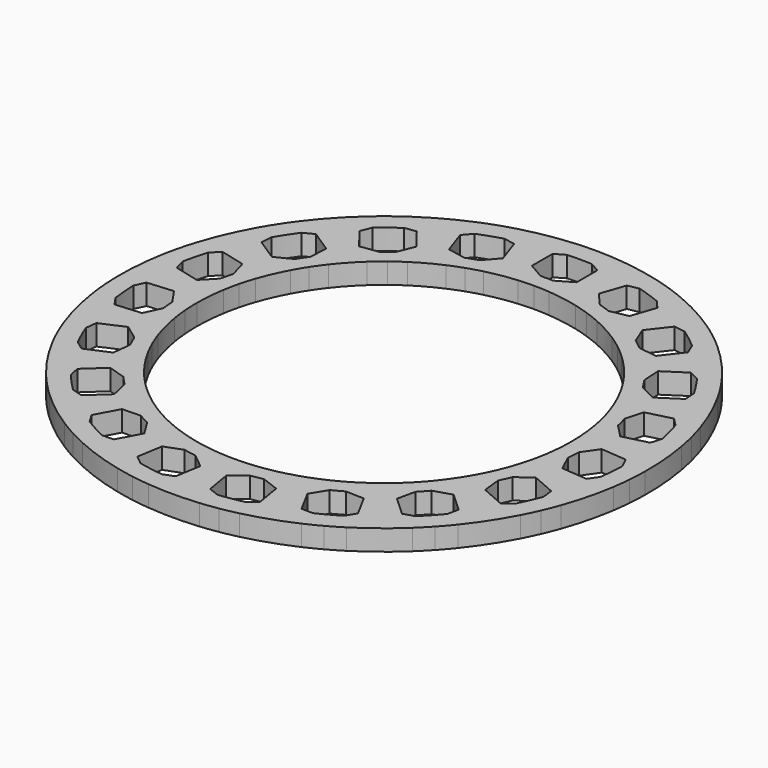
from build123d import *

# Parameters (mm, degrees)
F2_DEPTH = 3
F4_COUNT = 19
F0_R     = 38.3
F0_R_2   = 35.5
F0_R_3   = 29.55
F0_R_4   = 27.2
F5_DEPTH = 3


with BuildPart() as f2:
    # F1 (on Top) → F2 (new body)
    with BuildSketch(Plane.XY):
        with BuildLine():
            ThreePointArc((0, 27.2), (1.1409171528, 27.1760613049), (2.2798260654, 27.1042873566))
            Line((2.2798260654, 27.1042873566), (6.0292436043, 29.269014582))
            Line((6.0292436043, 29.269014582), (6.0292436043, 36.230985418))
            Line((6.0292436043, 36.230985418), (2.5984542335, 38.2117525847))
            ThreePointArc((2.5984542335, 38.2117525847), (1.2999761546, 38.2779317884), (0, 38.3))
            Line((0, 38.3), (0, 36.4978648722))
            Line((0, 36.4978648722), (3.2457461893, 34.6239324361))
            Line((3.2457461893, 34.6239324361), (3.2457461893, 30.8760675639))
            Line((3.2457461893, 30.8760675639), (0, 29.0021351278))
            Line((0, 29.0021351278), (0, 27.2))
        make_face()
        with BuildLine():
            Line((-6.0292436043, 29.269014582), (-2.2798260654, 27.1042873566))
            ThreePointArc((-2.2798260654, 27.1042873566), (-1.1409171528, 27.1760613049), (0, 27.2))
            Line((0, 27.2), (0, 29.0021351278))
            Line((0, 29.0021351278), (-3.2457461893, 30.8760675639))
            Line((-3.2457461893, 30.8760675639), (-3.2457461893, 34.6239324361))
            Line((-3.2457461893, 34.6239324361), (0, 36.4978648722))
            Line((0, 36.4978648722), (0, 38.3))
            ThreePointArc((0, 38.3), (-1.2999761546, 38.2779317884), (-2.5984542335, 38.2117525847))
            Line((-2.5984542335, 38.2117525847), (-6.0292436043, 36.230985418))
            Line((-6.0292436043, 36.230985418), (-6.0292436043, 29.269014582))
        make_face()
    extrude(amount=F2_DEPTH)

    # F4: F2 ×19 about axis
    f4_axis = Axis((0, 0, -0.668766588), (0, 0, 1))


with BuildPart() as f2_1:
    add(f2.part)
    for i in range(1, F4_COUNT):
        add(f2.part.rotate(f4_axis, i * 360 / F4_COUNT))

    # F0 (on Top) → F5 (join)
    with BuildSketch(Plane.XY):
        Circle(F0_R)
        Circle(F0_R_2, mode=Mode.SUBTRACT)
        Circle(F0_R_3)
        Circle(F0_R_4, mode=Mode.SUBTRACT)
    extrude(amount=F5_DEPTH)


solid = f2_1.part
